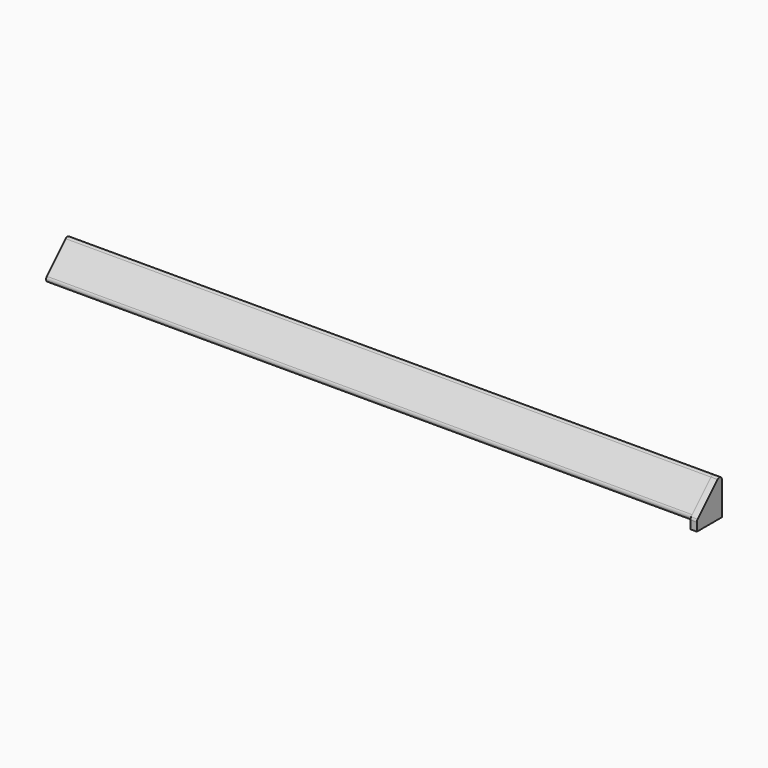
from build123d import *

# Parameters (mm, degrees)
PAD_DEPTH    = 2
FILLET_R     = 1
FILLET001_R  = 1
PAD001_DEPTH = 200


with BuildPart() as part:
    # Sketch → Pad (new body)
    with BuildSketch(Plane.YZ):
        Polygon((-9.7, 0), (0, 0), (0, 12.7), (-9.7, 3), align=None)
    extrude(amount=PAD_DEPTH)

    # Fillet
    fillet_edges = [part.edges().sort_by_distance(p)[0] for p in [
        (1, 0, 12.7),
    ]]
    fillet(fillet_edges, radius=FILLET_R)

    # Fillet001
    fillet001_edges = [part.edges().sort_by_distance(p)[0] for p in [
        (1, -9.7, 3),
    ]]
    fillet(fillet001_edges, radius=FILLET001_R)

    # Sketch001 (on Face1 of Fillet001) → Pad001 (join)
    with BuildSketch(Plane(origin=(0, 0, 0), x_dir=(0, 1, 0), z_dir=(-1, 0, 0))):
        with BuildLine():
            Line((0, -3), (0, -10.285787))
            ThreePointArc((-1.707108, -10.992893), (-0.617572, -11.20905), (0, -10.285787))
            Line((-8.992894, -3.707107), (-1.707108, -10.992893))
            ThreePointArc((-8.285787, -2), (-9.209667, -2.617317), (-8.992894, -3.707107))
            Line((-8.285787, -2), (-1, -2))
            ThreePointArc((0, -3), (-0.292893, -2.292893), (-1, -2))
        make_face()
    extrude(amount=PAD001_DEPTH)


solid = part.part
